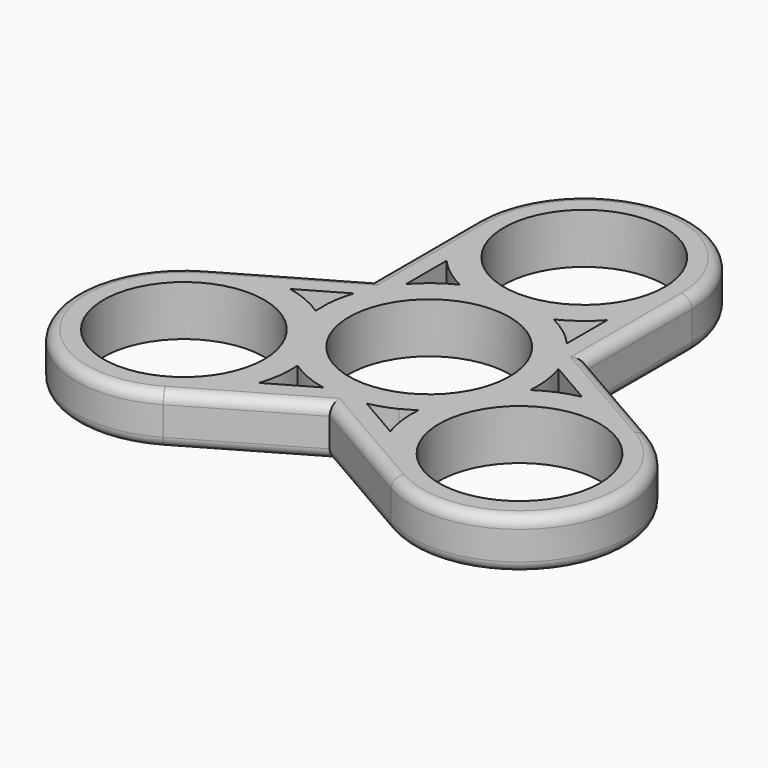
from build123d import *

# Parameters (mm, degrees)
F0_R     = 11.2
F1_DEPTH = 7
F2_R     = 1.5


with BuildPart() as f1:
    # F0 (on Top) → F1 (new body)
    with BuildSketch(Plane.XY):
        with BuildLine():
            Line((15, 8.63051), (15, 27))
            ThreePointArc((15, 27), (0, 42), (-15, 27))
            Line((-15, 27), (-14.999941, 26.957829))
            Line((-14.999941, 26.957829), (-14.974241, 8.675126))
            Line((-14.974241, 8.675126), (-30.882686, -0.509619))
            ThreePointArc((-30.882686, -0.509619), (-36.373067, -21), (-15.882686, -26.490381))
            Line((-15.882686, -26.490381), (-15.846194, -26.469244))
            Line((-15.846194, -26.469244), (-0.025759, -17.305636))
            Line((-0.025759, -17.305636), (15.882686, -26.490381))
            ThreePointArc((15.882686, -26.490381), (36.373067, -21), (30.882686, -0.509619))
            Line((30.882686, -0.509619), (30.846135, -0.488585))
            Line((30.846135, -0.488585), (15, 8.63051))
        make_face()
        with Locations((-23.382686, -13.5)):
            Circle(F0_R, mode=Mode.SUBTRACT)
        with BuildLine():
            ThreePointArc((-9.141505, -18.210497), (-8.496809, -15.346798), (-8.422169, -12.412376))
            ThreePointArc((-8.422169, -12.412376), (-5.843565, -13.814947), (-3.04118, -14.688472))
            Line((-3.04118, -14.688472), (-9.141505, -18.210497))
        make_face(mode=Mode.SUBTRACT)
        with BuildLine():
            Line((-14.963516, 1.04556), (-14.960517, -1.087624))
            ThreePointArc((-14.960517, -1.087624), (-17.539121, 0.314947), (-20.341505, 1.188472))
            Line((-20.341505, 1.188472), (-14.24118, 4.710497))
            ThreePointArc((-14.24118, 4.710497), (-14.716878, 2.900601), (-14.963516, 1.04556))
        make_face(mode=Mode.SUBTRACT)
        Circle(F0_R, mode=Mode.SUBTRACT)
        with BuildLine():
            Line((6.576276, -13.481565), (8.422169, -12.412376))
            ThreePointArc((8.422169, -12.412376), (8.496809, -15.346798), (9.141505, -18.210497))
            Line((9.141505, -18.210497), (3.04118, -14.688472))
            ThreePointArc((3.04118, -14.688472), (4.846445, -14.195491), (6.576276, -13.481565))
        make_face(mode=Mode.SUBTRACT)
        with Locations((23.382686, -13.5)):
            Circle(F0_R, mode=Mode.SUBTRACT)
        with BuildLine():
            ThreePointArc((20.341505, 1.188472), (17.539121, 0.314947), (14.960517, -1.087624))
            ThreePointArc((14.960517, -1.087624), (14.885877, 1.846798), (14.24118, 4.710497))
            Line((14.24118, 4.710497), (20.341505, 1.188472))
        make_face(mode=Mode.SUBTRACT)
        with BuildLine():
            ThreePointArc((-11.2, 17.022024), (-9.042312, 15.031851), (-6.538348, 13.5))
            ThreePointArc((-6.538348, 13.5), (-9.042312, 11.968149), (-11.2, 9.977976))
            Line((-11.2, 9.977976), (-11.2, 17.022024))
        make_face(mode=Mode.SUBTRACT)
        with Locations((0, 27)):
            Circle(F0_R, mode=Mode.SUBTRACT)
        with BuildLine():
            ThreePointArc((11.2, 9.977976), (9.042312, 11.968149), (6.538348, 13.5))
            ThreePointArc((6.538348, 13.5), (9.042312, 15.031851), (11.2, 17.022024))
            Line((11.2, 17.022024), (11.2, 9.977976))
        make_face(mode=Mode.SUBTRACT)
    extrude(amount=F1_DEPTH)

    # F2
    f2_edges = [f1.edges().sort_by_distance(p)[0] for p in [
        (-14.98712, 17.837563, 7),
        (0, 42, 7),
        (15, 17.815255, 7),
        (22.941343, 4.060445, 7),
        (36.373067, -21, 7),
        (7.928463, -21.898008, 7),
        (-7.954223, -21.898008, 7),
        (-36.373067, -21, 7),
        (-22.928463, 4.082754, 7),
        (15, 17.815255, 0),
        (0, 42, 0),
        (-14.98712, 17.837563, 0),
        (-22.928463, 4.082754, 0),
        (-36.373067, -21, 0),
        (-7.954223, -21.898008, 0),
        (7.928463, -21.898008, 0),
        (36.373067, -21, 0),
        (22.941343, 4.060445, 0),
    ]]
    fillet(f2_edges, radius=F2_R)


solid = f1.part
